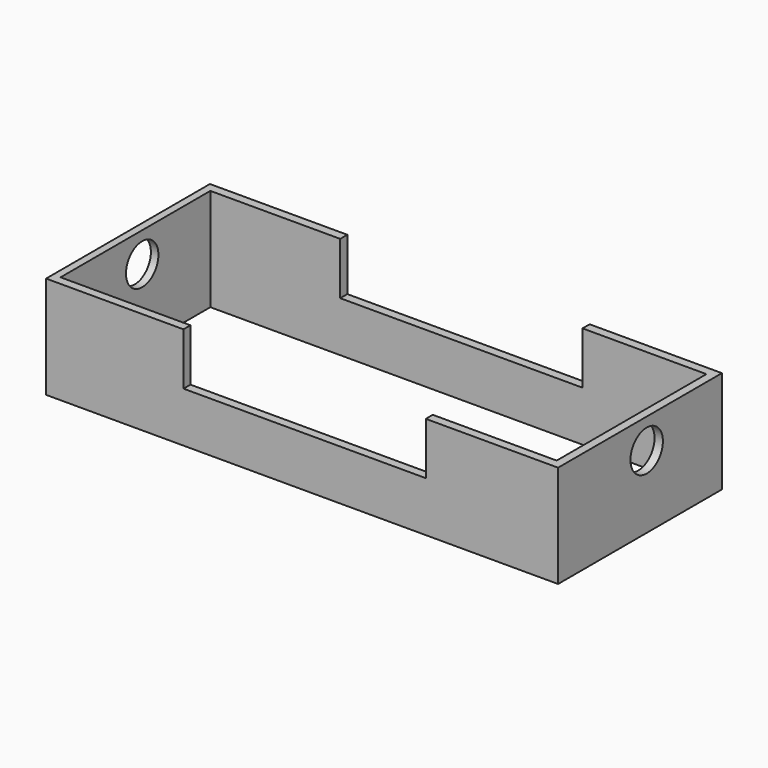
from build123d import *

# Parameters (mm, degrees)
F0_W     = 127
F0_H     = 50.8
F1_DEPTH = 25.4
F2_W     = 123.053175
F2_H     = 46.431223
F3_DEPTH = 44.45
F4_R     = 5.031907
F5_DEPTH = 156.464
F6_W     = 60.099678
F6_H     = 12.956048
F7_DEPTH = 78.232


with BuildPart() as f1:
    # F0 (on Top) → F1 (new body)
    with BuildSketch(Plane.XY):
        with Locations((-0.174111, -15.803309)):
            Rectangle(F0_W, F0_H)
    extrude(amount=F1_DEPTH)

    # F2 (on face) → F3 (cut)
    with BuildSketch(Plane.XY.offset(25.4)):
        with Locations((-0.281648, -15.825602)):
            Rectangle(F2_W, F2_H)
    extrude(amount=-F3_DEPTH, mode=Mode.SUBTRACT)

    # F4 (on face) → F5 (cut)
    with BuildSketch(Plane(origin=(-63.674111, 0, 0), x_dir=(0, -1, 0), z_dir=(-1, 0, 0))):
        with Locations((13.734436, 17.974596)):
            Circle(F4_R)
    extrude(amount=-F5_DEPTH, mode=Mode.SUBTRACT)

    # F6 (on face) → F7 (cut)
    with BuildSketch(Plane.XZ.offset(41.203309)):
        with Locations((0.460886, 18.921976)):
            Rectangle(F6_W, F6_H)
    extrude(amount=-F7_DEPTH, mode=Mode.SUBTRACT)


solid = f1.part
